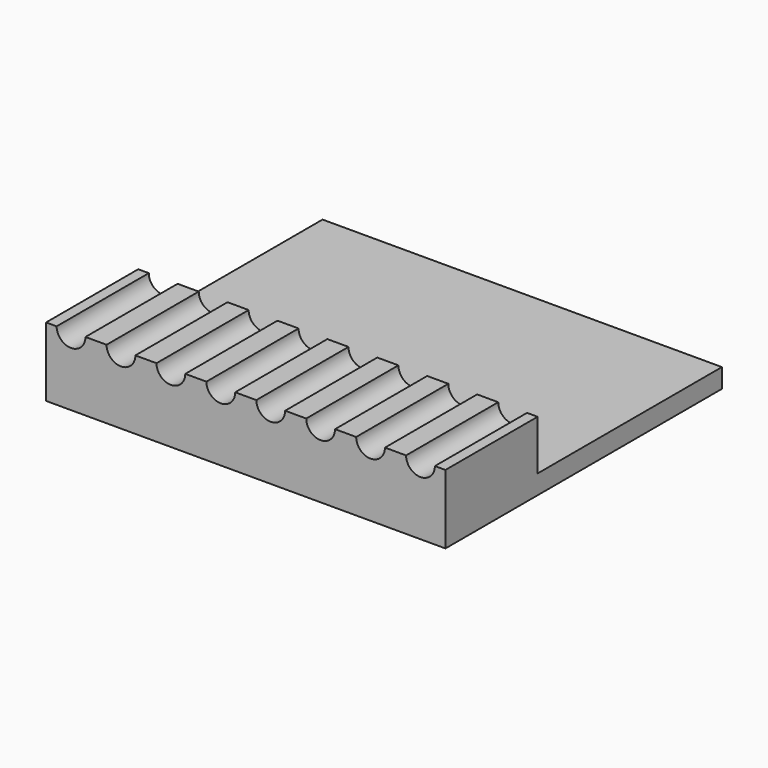
from build123d import *

# Parameters (mm, degrees)
BOX022_W          = 30
BOX022_H          = 20
BOX022_DEPTH      = 9.2
BOX011_W          = 26
BOX011_H          = 12
BOX011_DEPTH      = 5.2
CYLINDER005_R     = 0.75
CYLINDER005_DEPTH = 7
ARRAY005_X_COUNT  = 8
ARRAY005_X_PITCH  = 2.6
ARRAY005_Y_COUNT  = 2
ARRAY005_Y_PITCH  = 1
BOX010_W          = 20.8
BOX010_H          = 18
BOX010_DEPTH      = 7.2


with BuildPart() as obj1:
    # Box022 → Box022 (new body)
    with BuildSketch(Plane(origin=(-1, -2, 3.6), x_dir=(1, 0, 0), z_dir=(0, 0, 1))):
        with Locations((15, 10)):
            Rectangle(BOX022_W, BOX022_H)
    extrude(amount=BOX022_DEPTH)


with BuildPart() as cube_10_base007:
    # Box011 → Box011 (new body)
    with BuildSketch(Plane(origin=(0, 6, 1), x_dir=(1, 0, 0), z_dir=(0, 0, 1))):
        with Locations((13, 6)):
            Rectangle(BOX011_W, BOX011_H)
    extrude(amount=BOX011_DEPTH)


with BuildPart() as array005:
    # Cylinder005 → Cylinder005 (new body)
    with BuildSketch(Plane(origin=(1.3, -1, 3.6), x_dir=(1, 0, 0), z_dir=(0, 1, 0))):
        Circle(CYLINDER005_R)
    extrude(amount=CYLINDER005_DEPTH)

    # Array005 X: Array005 ×8


with BuildPart() as array005_1:
    add(array005.part)
    with Locations(*[(i * ARRAY005_X_PITCH, 0, 0) for i in range(1, ARRAY005_X_COUNT)]):
        add(array005.part)

    # Array005 Y: Array005 ×2


with BuildPart() as array005_2:
    add(array005_1.part)
    with Locations(*[(0, i * ARRAY005_Y_PITCH, 0) for i in range(1, ARRAY005_Y_COUNT)]):
        add(array005_1.part)


with BuildPart() as obj2:
    # Box010 → Box010 (new body)
    with BuildSketch(Plane.XY):
        with Locations((10.4, 9)):
            Rectangle(BOX010_W, BOX010_H)
    extrude(amount=BOX010_DEPTH)

    # Cut011: cut Array005
    add(array005_2.part, mode=Mode.SUBTRACT)

    # Cut010: cut cube_10_base007
    add(cube_10_base007.part, mode=Mode.SUBTRACT)

    # Cut021: cut obj1
    add(obj1.part, mode=Mode.SUBTRACT)


solid = obj2.part
